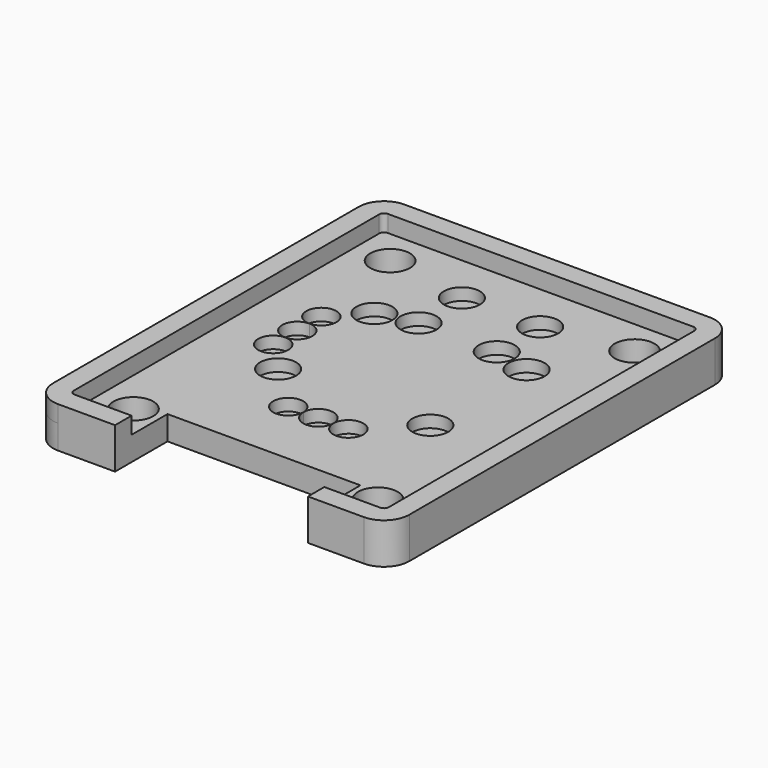
from build123d import *

# Parameters (mm, degrees)
SKETCH002_R   = 1.651
PAD_DEPTH     = 2
SKETCH004_R   = 1.5
SKETCH004_R_2 = 1.25
POCKET_DEPTH  = 1
PAD001_DEPTH  = 1.4


with BuildPart() as part:
    # Sketch002 → Pad (new body)
    with BuildSketch(Plane.XY):
        with BuildLine():
            Line((-2.1, 31.749999), (-2.1, -1e-06))
            ThreePointArc((-2.1, -1e-06), (-1.484924, -1.484925), (0, -2.1))
            Line((4.726249, -2.1), (0, -2.1))
            Line((4.726249, 3.34784), (4.726249, -2.1))
            Line((20.762018, 3.34784), (4.726249, 3.34784))
            Line((20.762018, -2.1), (20.762018, 3.34784))
            Line((20.762018, -2.1), (25.4, -2.1))
            ThreePointArc((25.4, -2.1), (26.884924, -1.484924), (27.5, -1e-06))
            Line((27.5, -1e-06), (27.5, 31.75))
            ThreePointArc((27.5, 31.75), (26.884924, 33.234924), (25.400001, 33.85))
            Line((25.400001, 33.85), (1e-06, 33.85))
            ThreePointArc((1e-06, 33.85), (-1.484924, 33.234924), (-2.1, 31.749999))
        make_face()
        with Locations((2.54, 29.21)):
            Circle(SKETCH002_R, mode=Mode.SUBTRACT)
        with Locations((22.86, 29.21)):
            Circle(SKETCH002_R, mode=Mode.SUBTRACT)
        with Locations((22.86, 2.54)):
            Circle(SKETCH002_R, mode=Mode.SUBTRACT)
        with Locations((2.54, 2.54)):
            Circle(SKETCH002_R, mode=Mode.SUBTRACT)
    extrude(amount=PAD_DEPTH)

    # Sketch004 (on Face18 of Pad) → Pocket (cut)
    with BuildSketch(Plane.XY.offset(2)):
        with Locations((9.45, 28.03)):
            Circle(SKETCH004_R)
        with Locations((15.95, 28.03)):
            Circle(SKETCH004_R)
        with Locations((19.025, 22.78)):
            Circle(SKETCH004_R)
        with Locations((15.95, 23.53)):
            Circle(SKETCH004_R)
        with Locations((9.45, 23.53)):
            Circle(SKETCH004_R)
        with Locations((6.375, 22.78)):
            Circle(SKETCH004_R)
        with Locations((3.97, 20.28)):
            Circle(SKETCH004_R_2)
        with Locations((3.97, 17.78)):
            Circle(SKETCH004_R_2)
        with Locations((3.97, 15.28)):
            Circle(SKETCH004_R_2)
        with Locations((6.375, 12.78)):
            Circle(SKETCH004_R)
        with Locations((10.2, 9.05)):
            Circle(SKETCH004_R_2)
        with Locations((12.7, 9.05)):
            Circle(SKETCH004_R_2)
        with Locations((15.2, 9.05)):
            Circle(SKETCH004_R_2)
        with Locations((19.025, 12.78)):
            Circle(SKETCH004_R)
    extrude(amount=-POCKET_DEPTH, mode=Mode.SUBTRACT)

    # Sketch005 (on Face9 of Pocket) → Pad001 (join)
    with BuildSketch(Plane.XY.offset(2)):
        with BuildLine():
            Line((-2.1, 31.749999), (-2.1, -1e-06))
            ThreePointArc((-2.1, -1e-06), (-1.484924, -1.484924), (0, -2.1))
            Line((4.726249, -2.1), (0, -2.1))
            Line((4.726249, -0.384166), (4.726249, -2.1))
            Line((4.726249, -0.384166), (0, -0.384166))
            ThreePointArc((-0.4, 0.015834), (-0.282843, -0.267009), (0, -0.384166))
            Line((-0.4, 31.75), (-0.4, 0.015834))
            ThreePointArc((0, 32.15), (-0.282843, 32.032843), (-0.4, 31.75))
            Line((25.4, 32.15), (0, 32.15))
            ThreePointArc((25.8, 31.75), (25.682843, 32.032843), (25.4, 32.15))
            Line((25.8, 0), (25.8, 31.75))
            ThreePointArc((25.4, -0.4), (25.682843, -0.282843), (25.8, 0))
            Line((20.762018, -0.4), (25.4, -0.4))
            Line((20.762018, -0.4), (20.762018, -2.1))
            Line((20.762018, -2.1), (25.4, -2.1))
            ThreePointArc((25.4, -2.1), (26.884924, -1.484924), (27.5, -1e-06))
            Line((27.5, -1e-06), (27.5, 31.75))
            ThreePointArc((27.5, 31.75), (26.884924, 33.234924), (25.400001, 33.85))
            Line((25.400001, 33.85), (1e-06, 33.85))
            ThreePointArc((1e-06, 33.85), (-1.484924, 33.234924), (-2.1, 31.749999))
        make_face()
    extrude(amount=PAD001_DEPTH)


solid = part.part
